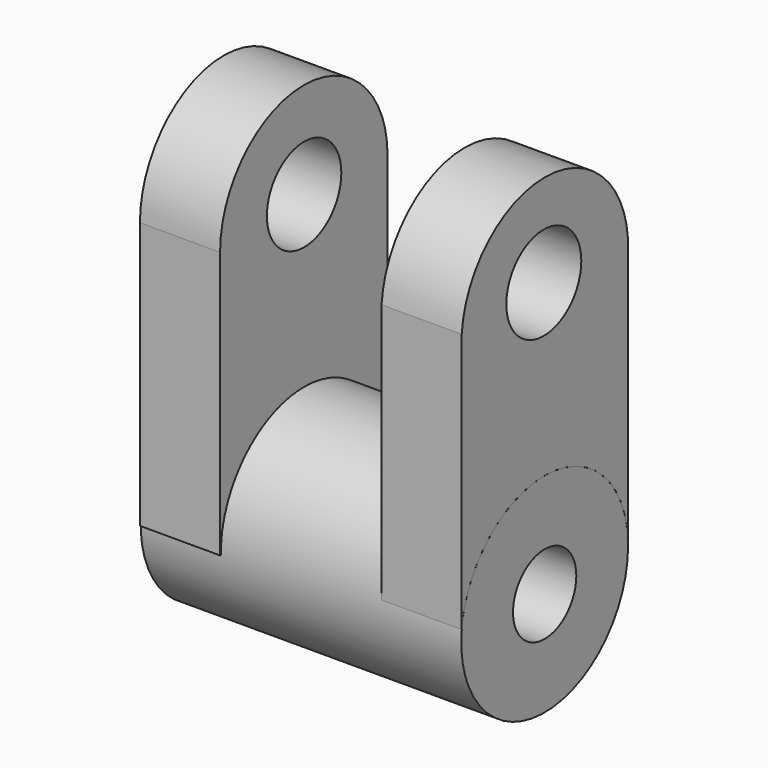
from build123d import *

# Parameters (mm, degrees)
F0_R      = 33.0434971647
F1_DEPTH  = 101.6
F3_DEPTH  = 25.4
F5_DEPTH  = 25.4
F6_R      = 12.5341082291
F7_DEPTH  = 101.601
F8_R      = 14.8496427524
F9_DEPTH  = 116.84
F10_R     = 14.7413346392
F11_DEPTH = 25.401


with BuildPart() as f1:
    # F0 (on Right) → F1 (new body)
    with BuildSketch(Plane.YZ):
        with Locations((36.1094623804, -52.7343675494)):
            Circle(F0_R)
    extrude(amount=F1_DEPTH)

    # F6 (on face) → F7 (cut, through all)
    with BuildSketch(Plane.YZ.offset(101.6)):
        with Locations((36.1094623804, -52.7343675494)):
            Circle(F6_R)
    extrude(amount=-F7_DEPTH, mode=Mode.SUBTRACT)


with BuildPart() as f3:
    # F2 (on face) → F3 (new body)
    with BuildSketch(Plane(origin=(0, 0, 0), x_dir=(0, -1, 0), z_dir=(-1, 0, 0))):
        with BuildLine():
            Line((-2.7853250504, 31.3722863793), (-69.1268369555, 31.3722863793))
            Line((-69.1268369555, 31.3722863793), (-69.1268369555, -51.4207157537))
            ThreePointArc((-69.1268369555, -51.4207157537), (-35.4525066303, -19.6974016776), (-3.0659652157, -52.7343675494))
            ThreePointArc((-3.0659652157, -52.7343675494), (-3.0667415352, -52.9608714523), (-3.0690704571, -53.1873647124))
            Line((-3.0690704571, -53.1873647124), (-2.7853250504, -53.1873647124))
            Line((-2.7853250504, -53.1873647124), (-2.7853250504, 31.3722863793))
        make_face()
        with BuildLine():
            ThreePointArc((-2.7853250504, 31.3722863793), (-35.956081003, 64.5430423319), (-69.1268369555, 31.3722863793))
            Line((-69.1268369555, 31.3722863793), (-2.7853250504, 31.3722863793))
        make_face()
    extrude(amount=-F3_DEPTH)

    # F10 (on face) → F11 (cut, through all)
    with BuildSketch(Plane.YZ.offset(25.4)):
        with Locations((36.0683202744, 33.9886806905)):
            Circle(F10_R)
    extrude(amount=-F11_DEPTH, mode=Mode.SUBTRACT)


with BuildPart() as f5:
    # F4 (on face) → F5 (new body)
    with BuildSketch(Plane.YZ.offset(101.6)):
        with BuildLine():
            ThreePointArc((69.1093092744, 33.0935716629), (36.1785469789, 63.5364929431), (3.2477846835, 33.0935716629))
            Line((3.2477846835, 33.0935716629), (69.1093092744, 33.0935716629))
        make_face()
        with BuildLine():
            Line((69.1093092744, 33.0935716629), (3.2477846835, 33.0935716629))
            Line((3.2477846835, 33.0935716629), (3.2477846835, -49.2727431015))
            ThreePointArc((3.2477846835, -49.2727431015), (36.9940344992, -19.7027124737), (69.1093092744, -51.0364836171))
            Line((69.1093092744, -51.0364836171), (69.1093092744, 33.0935716629))
        make_face()
    extrude(amount=-F5_DEPTH)

    # F8 (on face) → F9 (cut)
    with BuildSketch(Plane.YZ.offset(101.6)):
        with Locations((35.7699505985, 34.2870503664)):
            Circle(F8_R)
    extrude(amount=-F9_DEPTH, mode=Mode.SUBTRACT)


solid = Compound([f1.part, f3.part, f5.part])
